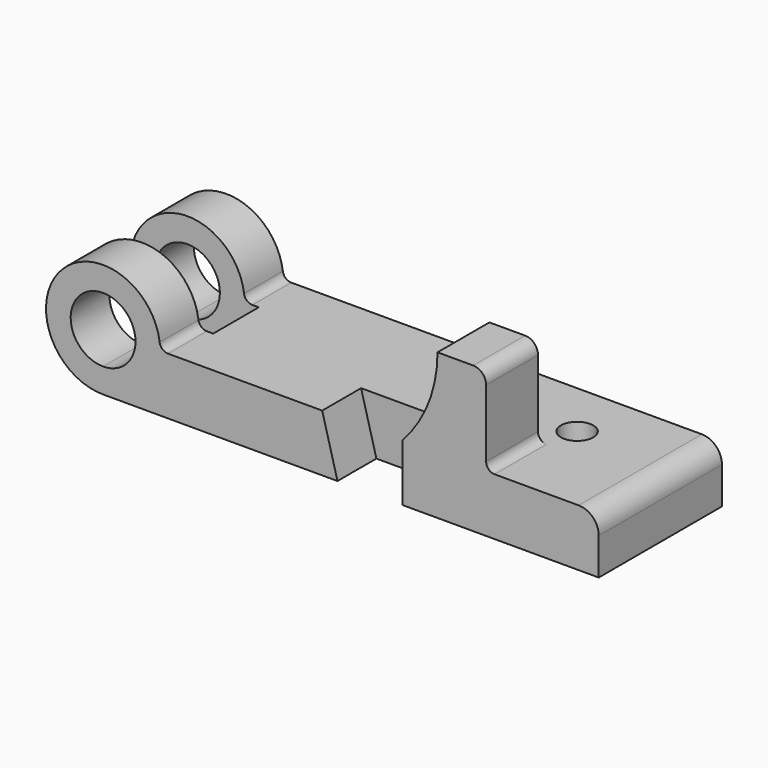
from build123d import *

# Parameters (mm, degrees)
F1_DEPTH  = 18.9992
F2_START  = -41.3258
F2_DEPTH  = 18.9992
F3_DEPTH  = 60.325
F4_DEPTH  = 60.325
F5_START  = -19.05
F5_DEPTH  = 41.275
F6_DEPTH  = 25.4
F7_R      = 3.302
F8_R      = 7.874
F9_R      = 6.35
F10_DEPTH = 22.353


with BuildPart() as f1:
    # F0 (on Front) → F1 (new body)
    with BuildSketch(Plane.XZ):
        with BuildLine():
            ThreePointArc((-171.8564, 22.352), (-210.0136507731, 38.1572507731), (-194.2084, 0))
            Line((-194.2084, 0), (-194.2084, 9.652))
            ThreePointArc((-194.2084, 9.652), (-203.1886561211, 31.3322561211), (-181.5084, 22.352))
            Line((-181.5084, 22.352), (-171.8564, 22.352))
        make_face()
        with BuildLine():
            Line((-194.2084, 9.652), (-194.2084, 0))
            ThreePointArc((-194.2084, 0), (-178.4031492269, 6.5467492269), (-171.8564, 22.352))
            Line((-171.8564, 22.352), (-181.5084, 22.352))
            ThreePointArc((-181.5084, 22.352), (-185.2281438789, 13.3717438789), (-194.2084, 9.652))
        make_face()
        with BuildLine():
            Line((-194.2084, 0), (-149.7584, 0))
            Line((-149.7584, 0), (-166.2684, 22.352))
            Line((-166.2684, 22.352), (-171.8564, 22.352))
            ThreePointArc((-171.8564, 22.352), (-178.4031492269, 6.5467492269), (-194.2084, 0))
        make_face()
        Polygon((-149.7584, 0), (-102.362, 0), (-108.3564, 22.352), (-166.2684, 22.352), align=None)
    extrude(amount=-F1_DEPTH)



with BuildPart() as f2:
    # F0 (on Front) → F2 (new body)
    with BuildSketch(Plane.XZ.offset(F2_START)):
        with BuildLine():
            ThreePointArc((-171.8564, 22.352), (-210.0136507731, 38.1572507731), (-194.2084, 0))
            Line((-194.2084, 0), (-194.2084, 9.652))
            ThreePointArc((-194.2084, 9.652), (-203.1886561211, 31.3322561211), (-181.5084, 22.352))
            Line((-181.5084, 22.352), (-171.8564, 22.352))
        make_face()
        with BuildLine():
            Line((-194.2084, 0), (-149.7584, 0))
            Line((-149.7584, 0), (-166.2684, 22.352))
            Line((-166.2684, 22.352), (-171.8564, 22.352))
            ThreePointArc((-171.8564, 22.352), (-178.4031492269, 6.5467492269), (-194.2084, 0))
        make_face()
        with BuildLine():
            Line((-194.2084, 9.652), (-194.2084, 0))
            ThreePointArc((-194.2084, 0), (-178.4031492269, 6.5467492269), (-171.8564, 22.352))
            Line((-171.8564, 22.352), (-181.5084, 22.352))
            ThreePointArc((-181.5084, 22.352), (-185.2281438789, 13.3717438789), (-194.2084, 9.652))
        make_face()
        Polygon((-149.7584, 0), (-102.362, 0), (-108.3564, 22.352), (-166.2684, 22.352), align=None)
    extrude(amount=-F2_DEPTH)


with BuildPart() as f1_1:
    add(f1.part)

    add(f2.part)  # F3 merges F2
    # F0 (on Front) → F3 (join, through all)
    with BuildSketch(Plane.XZ):
        Polygon((-149.7584, 0), (-102.362, 0), (-108.3564, 22.352), (-166.2684, 22.352), align=None)
    extrude(amount=-F3_DEPTH)



with BuildPart() as f4:
    # F0 (on Front) → F4 (new body)
    with BuildSketch(Plane.XZ):
        Polygon((-76.962, 0), (0, 0), (0, 22.352), (-44.1198, 22.352), (-76.962, 22.352), align=None)
    extrude(amount=-F4_DEPTH)


with BuildPart() as f1_2:
    add(f1_1.part)

    add(f4.part)  # F5 merges F4
    # F0 (on Front) → F5 (join)
    with BuildSketch(Plane.XZ.offset(F5_START)):
        Polygon((-102.362, 0), (-76.962, 0), (-76.962, 22.352), (-108.3564, 22.352), align=None)
    extrude(amount=-F5_DEPTH)

    # F0 (on Front) → F6 (join)
    with BuildSketch(Plane.XZ):
        with BuildLine():
            ThreePointArc((-63.1698, 57.15), (-66.7439846384, 38.4343576341), (-76.962, 22.352))
            Line((-76.962, 22.352), (-44.1198, 22.352))
            Line((-44.1198, 22.352), (-44.1198, 52.07))
            ThreePointArc((-44.1198, 52.07), (-45.6076975516, 55.6621024484), (-49.1998, 57.15))
            Line((-49.1998, 57.15), (-63.1698, 57.15))
        make_face()
    extrude(amount=-F6_DEPTH)

    # F7
    f7_edges = [f1_2.edges().sort_by_distance(p)[0] for p in [
        (-44.1198, 12.7, 22.352),
        (-171.8564, 9.4996, 22.352),
        (-171.8564, 50.8254, 22.352),
    ]]
    fillet(f7_edges, radius=F7_R)

    # F8
    f8_edges = [f1_2.edges().sort_by_distance(p)[0] for p in [
        (0, 30.1625, 22.352),
    ]]
    fillet(f8_edges, radius=F8_R)

    # F9 (on face) → F10 (cut, through all)
    with BuildSketch(Plane.XY.offset(22.352)):
        with Locations((-38.862, 37.973)):
            Circle(F9_R)
    extrude(amount=-F10_DEPTH, mode=Mode.SUBTRACT)


solid = f1_2.part
